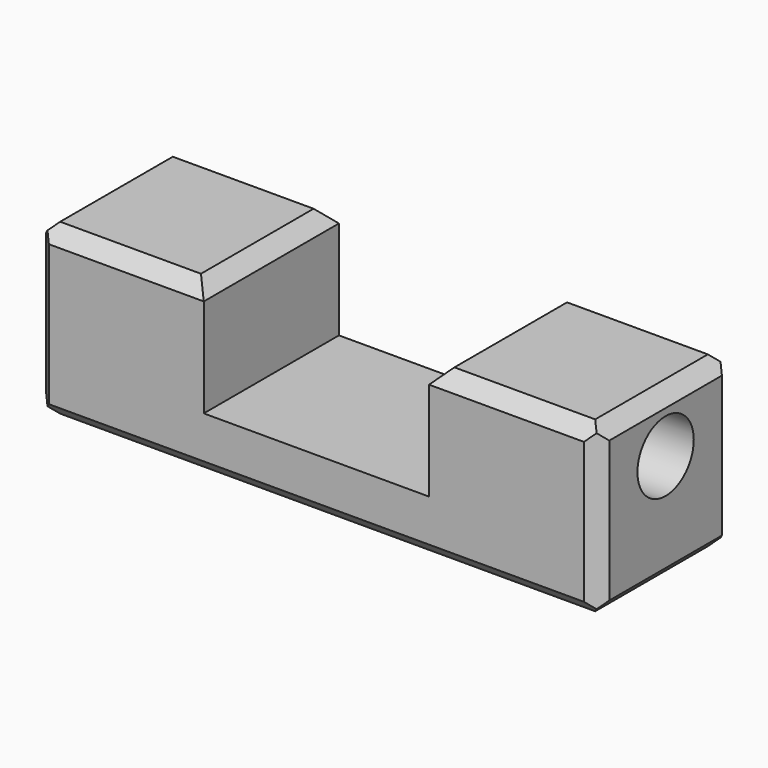
from build123d import *

# Parameters (mm, degrees)
F1_DEPTH = 60
F2_R     = 12.5
F3_DEPTH = 99
F4_SIZE  = 5
F5_SIZE  = 5
F6_SIZE  = 5
F7_SIZE  = 5


with BuildPart() as f1:
    # F0 (on Front) → F1 (new body)
    with BuildSketch(Plane.XZ):
        Polygon((-7.1532973647, 28.6979936063), (-67.1532973647, 28.6979936063), (-67.1532973647, -31.3020063937), (132.8467026353, -31.3020063937), (132.8467026353, 28.6979936063), (72.8467026353, 28.6979936063), (72.8467026353, -11.3020063937), (-7.1532973647, -11.3020063937), align=None)
    extrude(amount=F1_DEPTH)

    # F2 (on face) → F3 (cut)
    with BuildSketch(Plane.YZ.offset(132.8467026353)):
        with Locations((-30, 8.6979936063)):
            Circle(F2_R)
    extrude(amount=-F3_DEPTH, mode=Mode.SUBTRACT)

    # F4
    f4_edges = [f1.edges().sort_by_distance(p)[0] for p in [
        (-67.153297, -60, -1.302006),
        (-67.153297, 0, -1.302006),
    ]]
    chamfer(f4_edges, length=F4_SIZE)

    # F5 (call 1 of 2: OpenCascade refuses the feature's edges together)
    f5_edges = [f1.edges().sort_by_distance(p)[0] for p in [
        (35.346703, -60, -31.302006),
    ]]
    chamfer(f5_edges, length=F5_SIZE)

    # F5#2 (call 2 of 2)
    f5_2_edges = [f1.edges().sort_by_distance(p)[0] for p in [
        (-67.153297, -30, -31.302006),
    ]]
    chamfer(f5_2_edges, length=F5_SIZE)

    # F6
    f6_edges = [f1.edges().sort_by_distance(p)[0] for p in [
        (-67.153297, -30, 28.697994),
        (132.846703, -30, 28.697994),
        (102.846703, 0, 28.697994),
        (102.846703, -60, 28.697994),
        (72.846703, -30, 28.697994),
        (35.346703, 0, -31.302006),
    ]]
    chamfer(f6_edges, length=F6_SIZE)

    # F7 (call 1 of 4: OpenCascade refuses the feature's edges together)
    f7_edges = [f1.edges().sort_by_distance(p)[0] for p in [
        (132.846703, -60, -1.302006),
    ]]
    chamfer(f7_edges, length=F7_SIZE)

    # F7#2 (call 2 of 4)
    f7_2_edges = [f1.edges().sort_by_distance(p)[0] for p in [
        (132.846703, 0, -1.302006),
    ]]
    chamfer(f7_2_edges, length=F7_SIZE)

    # F7#3 (call 3 of 4)
    f7_3_edges = [f1.edges().sort_by_distance(p)[0] for p in [
        (132.846703, -30, -31.302006),
    ]]
    chamfer(f7_3_edges, length=F7_SIZE)

    # F7#4 (call 4 of 4)
    f7_4_edges = [f1.edges().sort_by_distance(p)[0] for p in [
        (-7.153297, -30, 28.697994),
        (-34.653297, -60, 28.697994),
        (-34.653297, 0, 28.697994),
    ]]
    chamfer(f7_4_edges, length=F7_SIZE)


solid = f1.part
